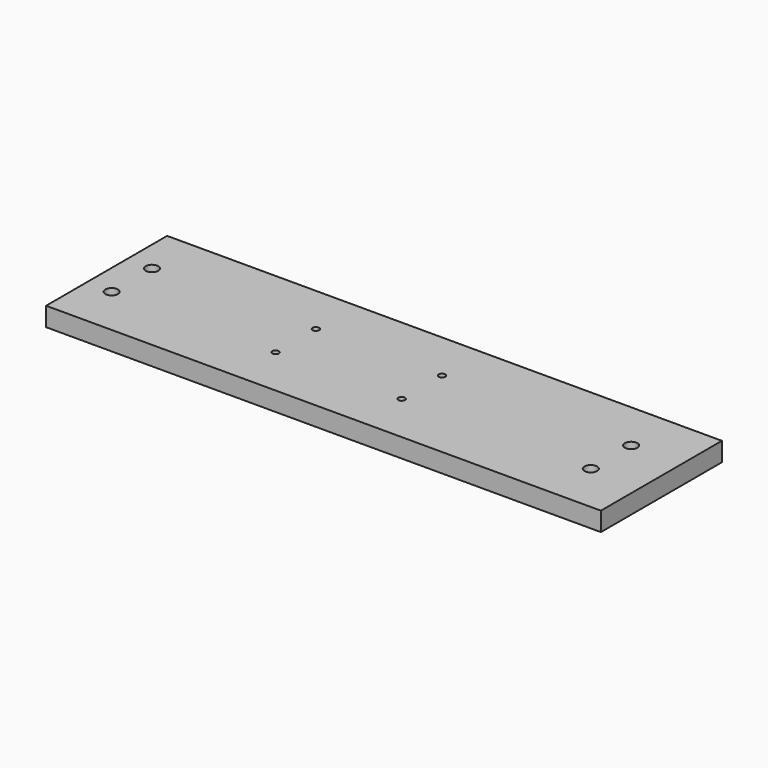
from build123d import *

# Parameters (mm, degrees)
F0_W     = 279.4
F0_H     = 76.2
F0_R     = 3.175
F0_R_2   = 1.651
F1_DEPTH = 9.525


with BuildPart() as f1:
    # F0 (on Top) → F1 (new body)
    with BuildSketch(Plane.XY):
        Rectangle(F0_W, F0_H)
        with Locations((-127, -12.7)):
            Circle(F0_R, mode=Mode.SUBTRACT)
        with Locations((-44.45, -12.7)):
            Circle(F0_R_2, mode=Mode.SUBTRACT)
        with Locations((19.05, -12.7)):
            Circle(F0_R_2, mode=Mode.SUBTRACT)
        with Locations((114.3, -12.7)):
            Circle(F0_R, mode=Mode.SUBTRACT)
        with Locations((-127, 12.7)):
            Circle(F0_R, mode=Mode.SUBTRACT)
        with Locations((-44.45, 12.7)):
            Circle(F0_R_2, mode=Mode.SUBTRACT)
        with Locations((19.05, 12.7)):
            Circle(F0_R_2, mode=Mode.SUBTRACT)
        with Locations((114.3, 12.7)):
            Circle(F0_R, mode=Mode.SUBTRACT)
    extrude(amount=F1_DEPTH)


solid = f1.part
